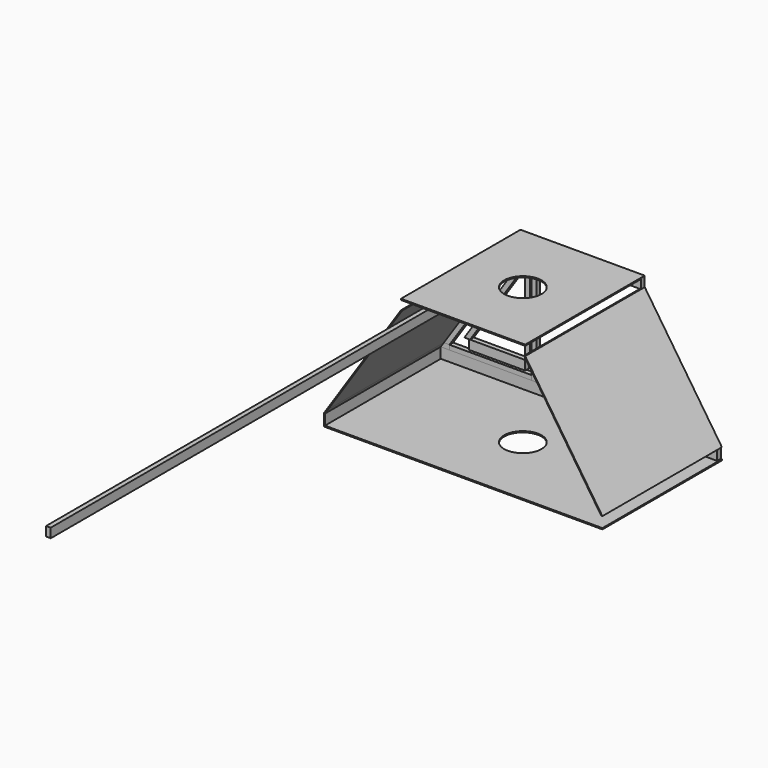
from build123d import *

# Parameters (mm, degrees)
F0_W      = 3.175
F0_H      = 6.35
F1_DEPTH  = 406.4
F2_DEPTH  = 3.175
F3_DEPTH  = 3.175
F4_DEPTH  = 3.175
F6_DEPTH  = 3.175
F7_DEPTH  = 101.6
F8_DEPTH  = 3.175
F9_DEPTH  = 3.175
F10_DEPTH = 3.175
F11_DEPTH = 3.175
F5_W      = 55.88
F5_H      = 3.175
F12_DEPTH = 3.175
F5_W_2    = 84.479583
F5_H_2    = 0.79375
F13_DEPTH = 101.6
F14_R     = 12.7
F15_DEPTH = 93.577917
F16_DEPTH = 101.6
F5_W_3    = 0.79375
F5_H_3    = 7.156894
F17_DEPTH = 101.6
F18_DEPTH = 3.175
F19_DEPTH = 101.6


with BuildPart() as f1:
    # F0 (on Front) → F1 (new body)
    with BuildSketch(Plane.XZ):
        with Locations((-4.7625, 66.675)):
            Rectangle(F0_W, F0_H)
    extrude(amount=F1_DEPTH)


with BuildPart() as f2:
    # F0 (on Front) → F2 (new body)
    with BuildSketch(Plane.XZ):
        Polygon((-41.275, 6.35), (-41.275, 0), (-3.175, 0), (-3.175, 6.35), (-40.634125, 6.35), align=None)
    extrude(amount=F2_DEPTH)


with BuildPart() as f3:
    # F0 (on Front) → F3 (new body)
    with BuildSketch(Plane.XZ):
        Polygon((-6.35, 63.5), (-44.45, 6.35), (-41.275, 6.35), (-40.634125, 6.35), (-3.175, 62.538687), (-3.175, 63.5), align=None)
    extrude(amount=F3_DEPTH)


with BuildPart() as f4:
    # F0 (on Front) → F4 (new body)
    with BuildSketch(Plane.XZ):
        Polygon((-3.175, 62.538687), (-3.175, 6.35), (0, 6.35), (0, 63.5), (-3.175, 63.5), align=None)
    extrude(amount=F4_DEPTH)


with BuildPart() as f6:
    # F5 (on face) → F6 (new body)
    with BuildSketch(Plane(origin=(0, 0, 0), x_dir=(-1, 0, 0), z_dir=(0, 1, 0))):
        Polygon((-4.445, 74.295), (-1.27, 74.295), (8.049208, 74.295), (8.842958, 74.295), (8.842958, 80.387522), (-75.636625, 80.387522), (-75.636625, 74.295), (-74.844145, 74.295), align=None)
    extrude(amount=-F6_DEPTH)


with BuildPart() as f7:
    # F5 (on face) → F7 (new body)
    with BuildSketch(Plane(origin=(0, 0, 0), x_dir=(-1, 0, 0), z_dir=(0, 1, 0))):
        Polygon((8.842958, 74.295), (8.049208, 74.295), (58.425875, -1.27), (60.542542, -4.445), (61.336292, -4.445), align=None)
    extrude(amount=-F7_DEPTH)


with BuildPart() as f8:
    # F5 (on face) → F8 (new body)
    with BuildSketch(Plane(origin=(0, 0, 0), x_dir=(-1, 0, 0), z_dir=(0, 1, 0))):
        Polygon((-1.27, 74.295), (-1.27, 71.12), (6.35, 71.12), (8.049208, 74.295), align=None)
    extrude(amount=-F8_DEPTH)


with BuildPart() as f9:
    # F5 (on face) → F9 (new body)
    with BuildSketch(Plane(origin=(0, 0, 0), x_dir=(-1, 0, 0), z_dir=(0, 1, 0))):
        Polygon((8.049208, 74.295), (6.35, 71.12), (54.61, -1.27), (58.425875, -1.27), align=None)
    extrude(amount=-F9_DEPTH)


with BuildPart() as f10:
    # F5 (on face) → F10 (new body)
    with BuildSketch(Plane(origin=(0, 0, 0), x_dir=(-1, 0, 0), z_dir=(0, 1, 0))):
        Polygon((-1.27, -1.27), (-1.27, 71.12), (-1.27, 74.295), (-4.445, 74.295), (-4.445, -4.445), (-1.27, -4.445), align=None)
    extrude(amount=-F10_DEPTH)


with BuildPart() as f11:
    # F5 (on face) → F11 (new body)
    with BuildSketch(Plane(origin=(0, 0, 0), x_dir=(-1, 0, 0), z_dir=(0, 1, 0))):
        Polygon((58.425875, -1.27), (54.61, -1.27), (54.61, -4.445), (60.542542, -4.445), align=None)
    extrude(amount=-F11_DEPTH)


with BuildPart() as f12:
    # F5 (on face) → F12 (new body)
    with BuildSketch(Plane(origin=(0, 0, 0), x_dir=(-1, 0, 0), z_dir=(0, 1, 0))):
        with Locations((26.67, -2.8575)):
            Rectangle(F5_W, F5_H)
    extrude(amount=-F12_DEPTH)


with BuildPart() as f13:
    # F5 (on face) → F13 (new body)
    with BuildSketch(Plane(origin=(0, 0, 0), x_dir=(-1, 0, 0), z_dir=(0, 1, 0))):
        Polygon((61.336292, -11.601894), (60.542542, -11.601894), (-127.337479, -11.601894), (-128.129959, -11.601894), (-128.129959, -12.395644), (61.336292, -12.395644), align=None)
        with Locations((-33.396833, 80.784397)):
            Rectangle(F5_W_2, F5_H_2)
    extrude(amount=-F13_DEPTH)

    # F14 (on face) → F15 (cut, through all)
    with BuildSketch(Plane.XY.offset(81.181272)):
        with Locations((33.396833, -50.8)):
            Circle(F14_R)
    extrude(amount=-F15_DEPTH, mode=Mode.SUBTRACT)


with BuildPart() as f16:
    # F5 (on face) → F16 (new body)
    with BuildSketch(Plane(origin=(0, 0, 0), x_dir=(-1, 0, 0), z_dir=(0, 1, 0))):
        Polygon((8.842958, 74.295), (8.049208, 74.295), (58.425875, -1.27), (60.542542, -4.445), (61.336292, -4.445), align=None)
    extrude(amount=-F16_DEPTH)


with BuildPart() as f17:
    # F5 (on face) → F17 (new body)
    with BuildSketch(Plane(origin=(0, 0, 0), x_dir=(-1, 0, 0), z_dir=(0, 1, 0))):
        with Locations((60.939417, -8.023447)):
            Rectangle(F5_W_3, F5_H_3)
    extrude(amount=-F17_DEPTH)


with BuildPart() as f18:
    # F5 (on face) → F18 (new body)
    with BuildSketch(Plane(origin=(0, 0, 0), x_dir=(-1, 0, 0), z_dir=(0, 1, 0))):
        Polygon((54.61, -4.445), (-1.27, -4.445), (-4.445, -4.445), (-127.337479, -4.445), (-127.337479, -11.601894), (60.542542, -11.601894), (60.542542, -4.445), align=None)
    extrude(amount=-F18_DEPTH)


with BuildPart() as f19:
    # F5 (on face) → F19 (new body)
    with BuildSketch(Plane(origin=(0, 0, 0), x_dir=(-1, 0, 0), z_dir=(0, 1, 0))):
        Polygon((-127.337479, -4.445), (-74.844145, 74.295), (-75.636625, 74.295), (-128.129959, -4.445), align=None)
    extrude(amount=-F19_DEPTH)


solid = Compound([f1.part, f2.part, f3.part, f4.part, f6.part, f7.part, f8.part, f9.part, f10.part, f11.part, f12.part, f13.part, f16.part, f17.part, f18.part, f19.part])
